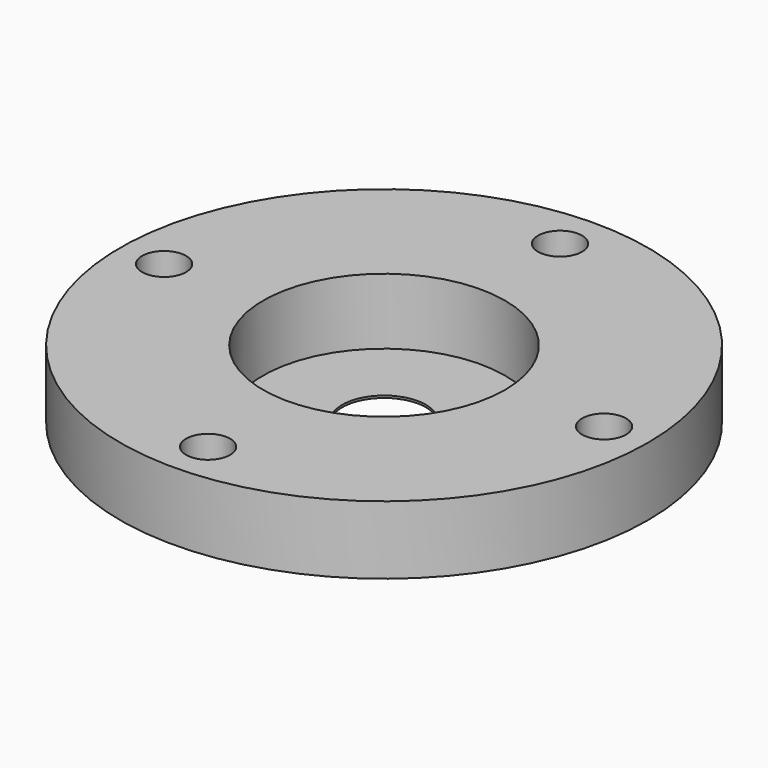
from build123d import *

# Parameters (mm, degrees)
F0_R     = 30.48
F0_R_2   = 2.54
F0_R_3   = 4.826
F1_DEPTH = 7.874
F2_R     = 13.97
F2_R_2   = 4.826
F3_DEPTH = 7.62


with BuildPart() as f1:
    # F0 (on Top) → F1 (new body)
    with BuildSketch(Plane.XY):
        Circle(F0_R)
        with Locations((0, -25.4)):
            Circle(F0_R_2, mode=Mode.SUBTRACT)
        with Locations((-25.4, 0)):
            Circle(F0_R_2, mode=Mode.SUBTRACT)
        Circle(F0_R_3, mode=Mode.SUBTRACT)
        with Locations((25.4, 0)):
            Circle(F0_R_2, mode=Mode.SUBTRACT)
        with Locations((0, 25.4)):
            Circle(F0_R_2, mode=Mode.SUBTRACT)
    extrude(amount=F1_DEPTH)

    # F2 (on face) → F3 (cut)
    with BuildSketch(Plane.XY.offset(7.874)):
        Circle(F2_R)
        Circle(F2_R_2, mode=Mode.SUBTRACT)
    extrude(amount=-F3_DEPTH, mode=Mode.SUBTRACT)


solid = f1.part
